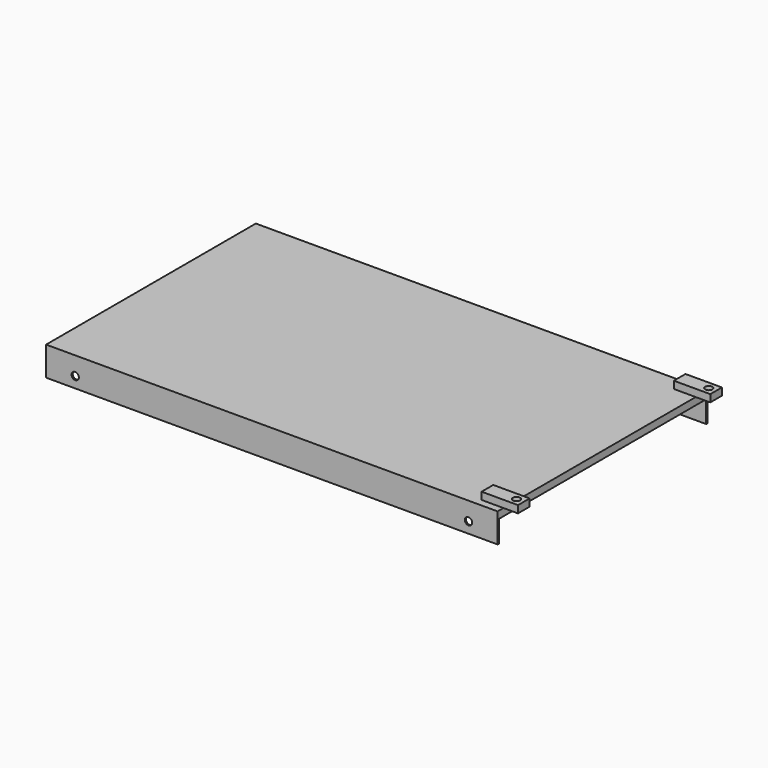
from build123d import *

# Parameters (mm, degrees)
F0_W      = 310
F0_H      = 180
F1_DEPTH  = 5
F2_W      = 25
F2_H      = 10
F3_DEPTH  = 5
F5_D      = 5
F6_W      = 25
F6_H      = 10
F7_DEPTH  = 5
F9_D      = 5
F10_W     = 310
F10_H     = 1
F11_DEPTH = 15
F13_D     = 5
F15_D     = 5


with BuildPart() as f1:
    # F0 (on Top) → F1 (new body)
    with BuildSketch(Plane.XY):
        Rectangle(F0_W, F0_H)
    extrude(amount=F1_DEPTH)

    # F2 (on face) → F3 (join)
    with BuildSketch(Plane.XY.offset(5)):
        with Locations((152.5, 85)):
            Rectangle(F2_W, F2_H)
    extrude(amount=F3_DEPTH)

    # F5 (through all)
    with Locations(Plane.XY.offset(10)):
        with Locations((160, 85)):
            Hole(F5_D / 2)

    # F6 (on face) → F7 (join)
    with BuildSketch(Plane.XY.offset(5)):
        with Locations((152.5, -80)):
            Rectangle(F6_W, F6_H)
    extrude(amount=F7_DEPTH)

    # F9 (through all)
    with Locations(Plane.XY.offset(10)):
        with Locations((160, -80)):
            Hole(F9_D / 2)

    # F10 (on face) → F11 (join)
    with BuildSketch(Plane(origin=(0, 0, 0), x_dir=(1, 0, 0), z_dir=(0, 0, -1))):
        with Locations((0, -89.5)):
            Rectangle(F10_W, F10_H)
        with Locations((0, 89.5)):
            Rectangle(F10_W, F10_H)
    extrude(amount=F11_DEPTH)

    # F13 (through all)
    with Locations(Plane(origin=(0, 90, 0), x_dir=(-1, 0, 0), z_dir=(0, 1, 0))):
        with Locations((-135, -7.5)):
            Hole(F13_D / 2)

    # F15 (through all)
    with Locations(Plane(origin=(0, 90, 0), x_dir=(-1, 0, 0), z_dir=(0, 1, 0))):
        with Locations((135, -7.5)):
            Hole(F15_D / 2)


solid = f1.part
